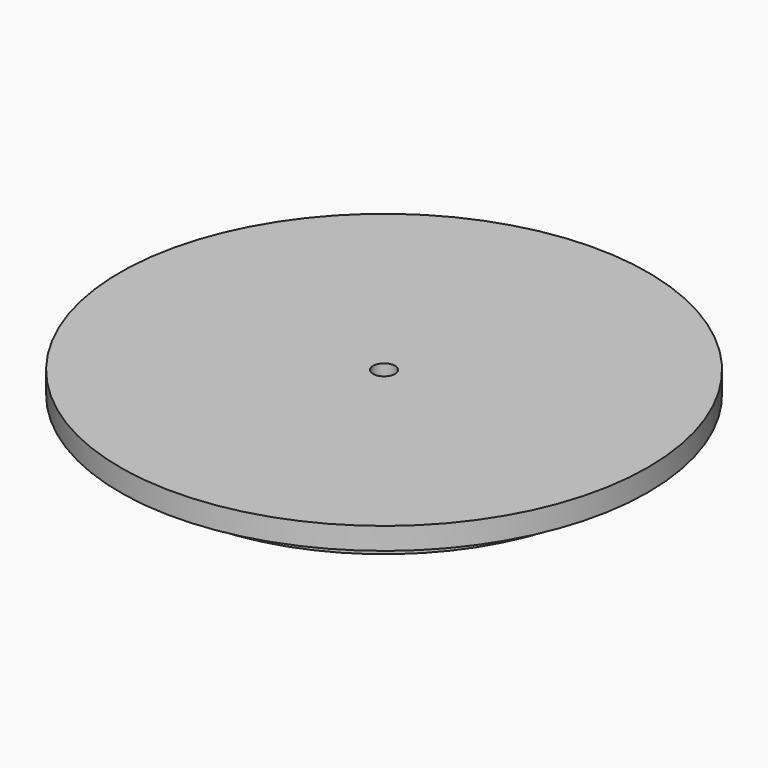
from build123d import *

# Parameters (mm, degrees)
CYLINDER052_R             = 1.5
CYLINDER052_DEPTH         = 10
CYLINDER048_R             = 31
CYLINDER048_DEPTH         = 6
CYLINDER047_R             = 36
CYLINDER047_DEPTH         = 3
FUSION025_PLACEMENT_ANGLE = 180


with BuildPart() as cylinder052:
    # Cylinder052 → Cylinder052 (new body)
    with BuildSketch(Plane(origin=(39, 45.2, 83), x_dir=(1, 0, 0), z_dir=(0, 0, 1))):
        Circle(CYLINDER052_R)
    extrude(amount=CYLINDER052_DEPTH)


with BuildPart() as cylinder048:
    # Cylinder048 → Cylinder048 (new body)
    with BuildSketch(Plane.XY):
        Circle(CYLINDER048_R)
    extrude(amount=CYLINDER048_DEPTH)


with BuildPart() as cap:
    # Cylinder047 → Cylinder047 (new body)
    with BuildSketch(Plane.XY):
        Circle(CYLINDER047_R)
    extrude(amount=CYLINDER047_DEPTH)

    # Fusion025: union Cylinder048
    add(cylinder048.part)


with BuildPart() as cap_1:
    # Fusion025 placement: moved
    add(cap.part.moved(Location((39, 45.2, 90))).rotate(Axis((39, 45.2, 90), (1, 0, 0)), FUSION025_PLACEMENT_ANGLE))

    # Cut055: cut Cylinder052
    add(cylinder052.part, mode=Mode.SUBTRACT)


solid = cap_1.part
